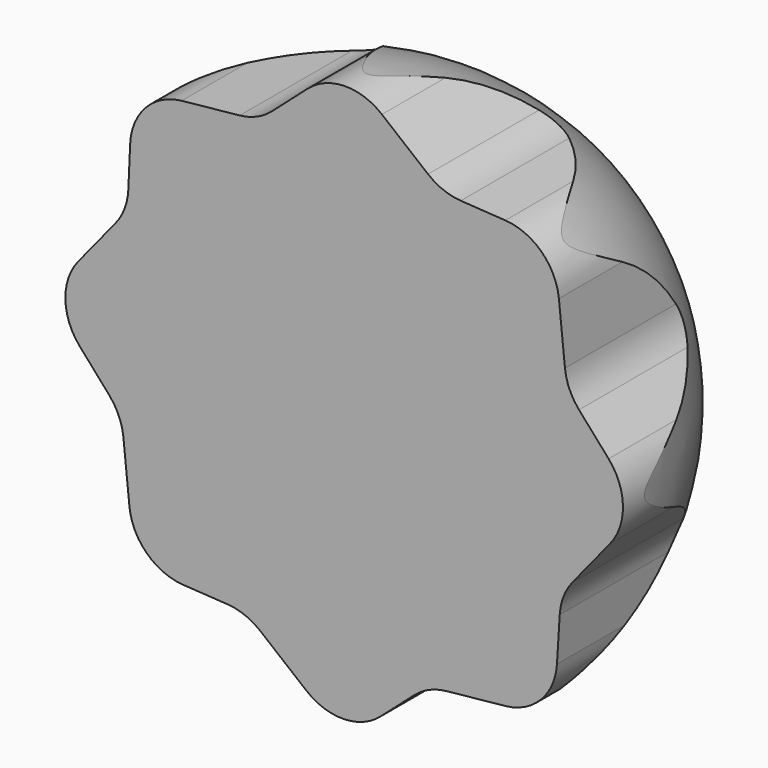
from build123d import *

# Parameters (mm, degrees)
F3_DEPTH = 28
F5_DEPTH = 28.5


with BuildPart() as f2:
    # F1 (on Top) → F2 (revolve)
    with BuildSketch(Plane.XY):
        with BuildLine():
            Line((0, 0), (29.2692774219, 0))
            ThreePointArc((29.2692774219, 0), (20.6965045455, 20.6965045455), (0, 29.2692774219))
            Line((0, 29.2692774219), (0, 0))
        make_face()
    revolve(axis=Axis((0, 14.634638711, 0), (0, 1, 0)))

    # F0 (on Front) → F3 (intersect)
    with BuildSketch(Plane.XZ):
        with BuildLine():
            ThreePointArc((3.945194664, 27.7883485129), (0.0373084232, 29.1340354035), (-3.8136642823, 27.633216527))
            Line((-3.8136642823, 27.633216527), (-7.5535770803, 24.331542424))
            ThreePointArc((-7.5535770803, 24.331542424), (-9.1180379779, 23.3332545526), (-10.9127239942, 22.8607943142))
            Line((-10.9127239942, 22.8607943142), (-16.9793532232, 22.2389932605))
            ThreePointArc((-16.9793532232, 22.2389932605), (-20.7291485519, 20.390551208), (-22.3614414118, 16.5417432044))
            Line((-22.3614414118, 16.5417432044), (-22.5561958707, 12.2418721785))
            ThreePointArc((-22.5561958707, 12.2418721785), (-22.9437268386, 10.3758000352), (-23.8969367631, 8.7254072532))
            Line((-23.8969367631, 8.7254072532), (-27.7883485129, 3.945194664))
            ThreePointArc((-27.7883485129, 3.945194664), (-29.1340354035, 0.0373084232), (-27.633216527, -3.8136642823))
            Line((-27.633216527, -3.8136642823), (-24.5439440866, -7.3129828631))
            ThreePointArc((-24.5439440866, -7.3129828631), (-23.5456562152, -8.8774437607), (-23.0731959768, -10.672129777))
            Line((-23.0731959768, -10.672129777), (-22.4390035715, -16.8596557714))
            ThreePointArc((-22.4390035715, -16.8596557714), (-20.6272550362, -20.5744929581), (-16.8429669171, -22.2363026675))
            Line((-16.8429669171, -22.2363026675), (-12.1841295275, -22.5262490739))
            ThreePointArc((-12.1841295275, -22.5262490739), (-10.3719924945, -22.92659386), (-8.7688780038, -23.8615486738))
            Line((-8.7688780038, -23.8615486738), (-3.945194664, -27.7883485129))
            ThreePointArc((-3.945194664, -27.7883485129), (-0.0373084232, -29.1340354035), (3.8136642823, -27.633216527))
            Line((3.8136642823, -27.633216527), (7.3129828631, -24.5439440866))
            ThreePointArc((7.3129828631, -24.5439440866), (8.8774437607, -23.5456562152), (10.672129777, -23.0731959768))
            Line((10.672129777, -23.0731959768), (16.8596557714, -22.4390035715))
            ThreePointArc((16.8596557714, -22.4390035715), (20.5744929581, -20.6272550362), (22.2363026675, -16.8429669171))
            Line((22.2363026675, -16.8429669171), (22.5262490739, -12.1841295275))
            ThreePointArc((22.5262490739, -12.1841295275), (22.92659386, -10.3719924945), (23.8615486738, -8.7688780038))
            Line((23.8615486738, -8.7688780038), (27.7883485129, -3.945194664))
            ThreePointArc((27.7883485129, -3.945194664), (29.1340354035, -0.0373084232), (27.633216527, 3.8136642823))
            Line((27.633216527, 3.8136642823), (24.5439440866, 7.3129828631))
            ThreePointArc((24.5439440866, 7.3129828631), (23.5456562152, 8.8774437607), (23.0731959768, 10.672129777))
            Line((23.0731959768, 10.672129777), (22.4390035715, 16.8596557714))
            ThreePointArc((22.4390035715, 16.8596557714), (20.6272550362, 20.5744929581), (16.8429669171, 22.2363026675))
            Line((16.8429669171, 22.2363026675), (12.1841295275, 22.5262490739))
            ThreePointArc((12.1841295275, 22.5262490739), (10.3719924945, 22.92659386), (8.7688780038, 23.8615486738))
            Line((8.7688780038, 23.8615486738), (3.945194664, 27.7883485129))
        make_face()
    extrude(amount=-F3_DEPTH, mode=Mode.INTERSECT)

    # F4 (on Front) → F5 (join)
    with BuildSketch(Plane.XZ):
        with BuildLine():
            ThreePointArc((-5.7626517428, -0.6364255295), (-7.0415962622, -1.4575454268), (-7.5743792358, -2.8809495409))
            ThreePointArc((-7.5743792358, -2.8809495409), (-5.4528869471, -3.4545905896), (-3.7298787119, -2.0903925816))
            ThreePointArc((-3.7298787119, -2.0903925816), (-4.6961248592, -1.6142758074), (-5.7713945385, -1.6784156306))
            add(Edge.make_bspline(
                [(-5.7204195994, -2.8054884917), (-5.5276959712, -2.7716639852), (-5.3933159938, -2.7194552116), (-4.9694015524, -2.5710960878), (-4.8524591791, -2.3640243217), (-4.9264833291, -2.1192797047), (-5.1710353856, -1.9554560799), (-5.4177566879, -1.815325972), (-5.6478746165, -1.7264615939), (-5.7713945385, -1.6784156306)],
                knots=[0, 0, 0, 0, 0.1596659756, 0.3227090771, 0.4414833311, 0.5641742699, 0.7020232023, 0.8404935325, 1, 1, 1, 1], degree=3))
            ThreePointArc((-5.7204195994, -2.8054884917), (-6.2714451357, -2.7484623768), (-6.7850369603, -2.5408460067))
            ThreePointArc((-6.7850369603, -2.5408460067), (-6.2116743359, -1.6212347916), (-5.1887048042, -1.2635158753))
            ThreePointArc((-5.1887048042, -1.2635158753), (-4.0033409982, -1.5298103862), (-3.041962686, -2.2726103997))
            ThreePointArc((-3.041962686, -2.2726103997), (-2.6870129443, -2.1218807463), (-2.3179708868, -2.0100026548))
            ThreePointArc((-2.3179708868, -2.0100026548), (-3.8337816015, -0.8052752474), (-5.7626517428, -0.6364255295))
        make_face()
        with BuildLine():
            ThreePointArc((-3.529648771, -4.5591451944), (-3.7964407478, -6.0553935062), (-3.1143177219, -7.4135706474))
            ThreePointArc((-3.1143177219, -7.4135706474), (-1.2517532948, -6.2471027574), (-1.0815773463, -4.0560222636))
            ThreePointArc((-1.0815773463, -4.0560222636), (-2.0875043929, -4.4412878562), (-2.771195098, -5.2736854895))
            add(Edge.make_bspline(
                [(-1.9097418164, -6.0022387973), (-1.8035820289, -5.8378715449), (-1.7505585809, -5.7038109306), (-1.5713053295, -5.2920073911), (-1.6437385047, -5.0654954265), (-1.8735872168, -4.9534727864), (-2.1599621263, -5.0215411313), (-2.4304298696, -5.1073027076), (-2.6520060075, -5.215723895), (-2.771195098, -5.2736854895)],
                knots=[0, 0, 0, 0, 0.1596659756, 0.3227090771, 0.4414833311, 0.5641742699, 0.7020232023, 0.8404935325, 1, 1, 1, 1], degree=3))
            ThreePointArc((-1.9097418164, -6.0022387973), (-2.3260474577, -6.3677120966), (-2.8273852488, -6.6033846208))
            ThreePointArc((-2.8273852488, -6.6033846208), (-3.112352483, -5.557811495), (-2.6795716245, -4.5642672261))
            ThreePointArc((-2.6795716245, -4.5642672261), (-1.6786581337, -3.8756655248), (-0.4804026354, -3.6752063515))
            ThreePointArc((-0.4804026354, -3.6752063515), (-0.3497561447, -3.3123837474), (-0.1810314693, -2.9656262941))
            ThreePointArc((-0.1810314693, -2.9656262941), (-2.0949400636, -3.2588909215), (-3.529648771, -4.5591451944))
        make_face()
        with BuildLine():
            ThreePointArc((-4.7377334244, 3.6767571622), (-6.2452674626, 3.8698325183), (-7.5683494271, 3.1219080004))
            ThreePointArc((-7.5683494271, 3.1219080004), (-6.3119214068, 1.3188045055), (-4.115130946, 1.2563124638))
            ThreePointArc((-4.115130946, 1.2563124638), (-4.5492764746, 2.2421301244), (-5.4142091209, 2.8841661961))
            add(Edge.make_bspline(
                [(-6.0996285225, 1.9880122347), (-5.9302516843, 1.8900429496), (-5.7937514965, 1.8436594061), (-5.3736507878, 1.6848221379), (-5.150964567, 1.7682792051), (-5.0503515484, 2.0033462653), (-5.1323854962, 2.2860374746), (-5.2313110817, 2.5519727612), (-5.3504707209, 2.7679637775), (-5.4142091209, 2.8841661961)],
                knots=[0, 0, 0, 0, 0.1596659756, 0.3227090771, 0.4414833311, 0.5641742699, 0.7020232023, 0.8404935325, 1, 1, 1, 1], degree=3))
            ThreePointArc((-6.0996285225, 1.9880122347), (-6.4850828924, 2.3858891605), (-6.7450638254, 2.8750629884))
            ThreePointArc((-6.7450638254, 2.8750629884), (-5.7147278784, 3.2109756587), (-4.701150466, 2.8274521067))
            ThreePointArc((-4.701150466, 2.8274521067), (-3.9642799214, 1.8615215089), (-3.7052840527, 0.6745416189))
            ThreePointArc((-3.7052840527, 0.6745416189), (-3.3364896219, 0.5618499363), (-2.9818731535, 0.4103378645))
            ThreePointArc((-2.9818731535, 0.4103378645), (-3.3686676778, 2.3075569466), (-4.7377334244, 3.6767571622))
        make_face()
        with BuildLine():
            ThreePointArc((5.7017399641, 0.8851654362), (6.9466737497, 1.7569892939), (7.4218583856, 3.200643176))
            ThreePointArc((7.4218583856, 3.200643176), (5.2790386023, 3.6886154704), (3.6122111515, 2.2563166771))
            ThreePointArc((3.6122111515, 2.2563166771), (4.5968000367, 1.8193915953), (5.6686260567, 1.9266659291))
            add(Edge.make_bspline(
                [(5.5724254038, 3.0507820765), (5.3812157779, 3.0092444658), (5.2490410982, 2.9516806888), (4.8314272752, 2.7864155139), (4.722895922, 2.574814048), (4.8066900694, 2.3332399534), (5.0576244848, 2.1793705036), (5.3097747883, 2.0492625771), (5.5432761196, 1.9697121713), (5.6686260567, 1.9266659291)],
                knots=[0, 0, 0, 0, 0.1596659756, 0.3227090771, 0.4414833311, 0.5641742699, 0.7020232023, 0.8404935325, 1, 1, 1, 1], degree=3))
            ThreePointArc((5.5724254038, 3.0507820765), (6.1252966868, 3.0159329185), (6.6468126475, 2.8291115543))
            ThreePointArc((6.6468126475, 2.8291115543), (6.1108471722, 1.8872142695), (5.103070174, 1.4886982627))
            ThreePointArc((5.103070174, 1.4886982627), (3.9079675607, 1.7071699151), (2.9175317328, 2.4107585662))
            ThreePointArc((2.9175317328, 2.4107585662), (2.5689221721, 2.2458946168), (2.2046712636, 2.1192848889))
            ThreePointArc((2.2046712636, 2.1192848889), (3.7676446198, 0.9764093327), (5.7017399641, 0.8851654362))
        make_face()
        with BuildLine():
            ThreePointArc((3.3566912216, 4.7226789266), (3.6804221164, 6.2076487165), (3.0506578685, 7.5908818716))
            ThreePointArc((3.0506578685, 7.5908818716), (1.1449108094, 6.4963857636), (0.8911936646, 4.313401294))
            ThreePointArc((0.8911936646, 4.313401294), (1.9110982674, 4.6599750974), (2.6260750452, 5.4656592832))
            add(Edge.make_bspline(
                [(1.7930694572, 6.2265754211), (1.6807108106, 6.0663816987), (1.6226069953, 5.9344435276), (1.4277599615, 5.529785009), (1.4914910664, 5.3006724138), (1.7168946232, 5.1799548139), (2.0056598367, 5.2370384354), (2.2792050921, 5.3124097918), (2.5047596443, 5.4122911351), (2.6260750452, 5.4656592832)],
                knots=[0, 0, 0, 0, 0.1596659756, 0.3227090771, 0.4414833311, 0.5641742699, 0.7020232023, 0.8404935325, 1, 1, 1, 1], degree=3))
            ThreePointArc((1.7930694572, 6.2265754211), (2.2230269031, 6.5758857618), (2.7329981082, 6.7922430806))
            ThreePointArc((2.7329981082, 6.7922430806), (2.9778328346, 5.7365511546), (2.5074296133, 4.7602569903))
            ThreePointArc((2.5074296133, 4.7602569903), (1.4809521734, 4.1103768593), (0.275916123, 3.955818662))
            ThreePointArc((0.275916123, 3.955818662), (0.1315107137, 3.5982493327), (-0.0503316706, 3.2581874341))
            ThreePointArc((-0.0503316706, 3.2581874341), (1.8733792841, 3.4781565502), (3.3566912216, 4.7226789266))
        make_face()
        with BuildLine():
            ThreePointArc((-0.9000513015, 5.8523373455), (-1.7846106228, 7.0882547281), (-3.2330670154, 7.5485926994))
            ThreePointArc((-3.2330670154, 7.5485926994), (-3.6990138162, 5.400875967), (-2.249677626, 3.7488414058))
            ThreePointArc((-2.249677626, 3.7488414058), (-1.8228840909, 4.7378641955), (-1.9411569308, 5.8085323678))
            add(Edge.make_bspline(
                [(-3.0642261653, 5.7007957759), (-3.020727644, 5.5100226835), (-2.9618098977, 5.3784459624), (-2.7922659001, 4.9625508841), (-2.5795613233, 4.8561977084), (-2.3388602535, 4.9424676181), (-2.1875751919, 5.194968546), (-2.0600628845, 5.4484413445), (-1.982913969, 5.6827470925), (-1.9411569308, 5.8085323678)],
                knots=[0, 0, 0, 0, 0.1596659756, 0.3227090771, 0.4414833311, 0.5641742699, 0.7020232023, 0.8404935325, 1, 1, 1, 1], degree=3))
            ThreePointArc((-3.0642261653, 5.7007957759), (-3.0350550301, 6.2539957075), (-2.8535977814, 6.7774022286))
            ThreePointArc((-2.8535977814, 6.7774022286), (-1.9062475201, 6.2511352163), (-1.4974059316, 5.2475027928))
            ThreePointArc((-1.4974059316, 5.2475027928), (-1.7035962607, 4.0502201749), (-2.3969792817, 3.0526129849))
            ThreePointArc((-2.3969792817, 3.0526129849), (-2.2285449374, 2.705714413), (-2.0982022127, 2.3427825713))
            ThreePointArc((-2.0982022127, 2.3427825713), (-0.9714335334, 3.9174071592), (-0.9000513015, 5.8523373455))
        make_face()
        with BuildLine():
            ThreePointArc((0.8421553462, -5.5211287426), (1.6632752435, -6.800073262), (3.0866793577, -7.3328562357))
            ThreePointArc((3.0866793577, -7.3328562357), (3.6603204064, -5.211363947), (2.2961223984, -3.4883557117))
            ThreePointArc((2.2961223984, -3.4883557117), (1.8200056242, -4.4546018591), (1.8841454474, -5.5298715383))
            add(Edge.make_bspline(
                [(3.0112183085, -5.4788965993), (2.977393802, -5.286172971), (2.9251850283, -5.1517929936), (2.7768259046, -4.7278785522), (2.5697541385, -4.610936179), (2.3250095215, -4.6849603289), (2.1611858966, -4.9295123854), (2.0210557888, -5.1762336877), (1.9321914107, -5.4063516163), (1.8841454474, -5.5298715383)],
                knots=[0, 0, 0, 0, 0.1596659756, 0.3227090771, 0.4414833311, 0.5641742699, 0.7020232023, 0.8404935325, 1, 1, 1, 1], degree=3))
            ThreePointArc((3.0112183085, -5.4788965993), (2.9541921935, -6.0299221356), (2.7465758234, -6.5435139602))
            ThreePointArc((2.7465758234, -6.5435139602), (1.8269646084, -5.9701513357), (1.4692456921, -4.9471818041))
            ThreePointArc((1.4692456921, -4.9471818041), (1.735540203, -3.761817998), (2.4783402164, -2.8004396858))
            ThreePointArc((2.4783402164, -2.8004396858), (2.3276105631, -2.4454899441), (2.2157324716, -2.0764478866))
            ThreePointArc((2.2157324716, -2.0764478866), (1.0110050641, -3.5922586013), (0.8421553462, -5.5211287426))
        make_face()
        with BuildLine():
            ThreePointArc((4.5779696329, -3.3304783383), (6.0746909049, -3.594604072), (7.4316505729, -2.9100623064))
            ThreePointArc((7.4316505729, -2.9100623064), (6.2618660604, -1.0495790954), (4.070485847, -0.8833071978))
            ThreePointArc((4.070485847, -0.8833071978), (4.4575430574, -1.888546232), (5.2911574802, -2.5707527946))
            add(Edge.make_bspline(
                [(6.0181748069, -1.7080028393), (5.8536186738, -1.6021360684), (5.7194638019, -1.5493515562), (5.3073415461, -1.3708322871), (5.0809589929, -1.4436689167), (4.969346045, -1.6737168512), (5.0379245073, -1.959970031), (5.1241678315, -2.2302845462), (5.2329836223, -2.4516671617), (5.2911574802, -2.5707527946)],
                knots=[0, 0, 0, 0, 0.1596659756, 0.3227090771, 0.4414833311, 0.5641742699, 0.7020232023, 0.8404935325, 1, 1, 1, 1], degree=3))
            ThreePointArc((6.0181748069, -1.7080028393), (6.3843892451, -2.1236566673), (6.6209546134, -2.6245737722))
            ThreePointArc((6.6209546134, -2.6245737722), (5.5758908645, -2.9114034196), (4.5815771001, -2.4803934153))
            ThreePointArc((4.5815771001, -2.4803934153), (3.891193195, -1.4807083736), (3.6885994448, -0.2828119291))
            ThreePointArc((3.6885994448, -0.2828119291), (3.3255446478, -0.1528120757), (2.9784871332, 0.0152945249))
            ThreePointArc((2.9784871332, 0.0152945249), (3.2751612473, -1.8980885312), (4.5779696329, -3.3304783383))
        make_face()
    extrude(amount=-F5_DEPTH)


solid = f2.part
